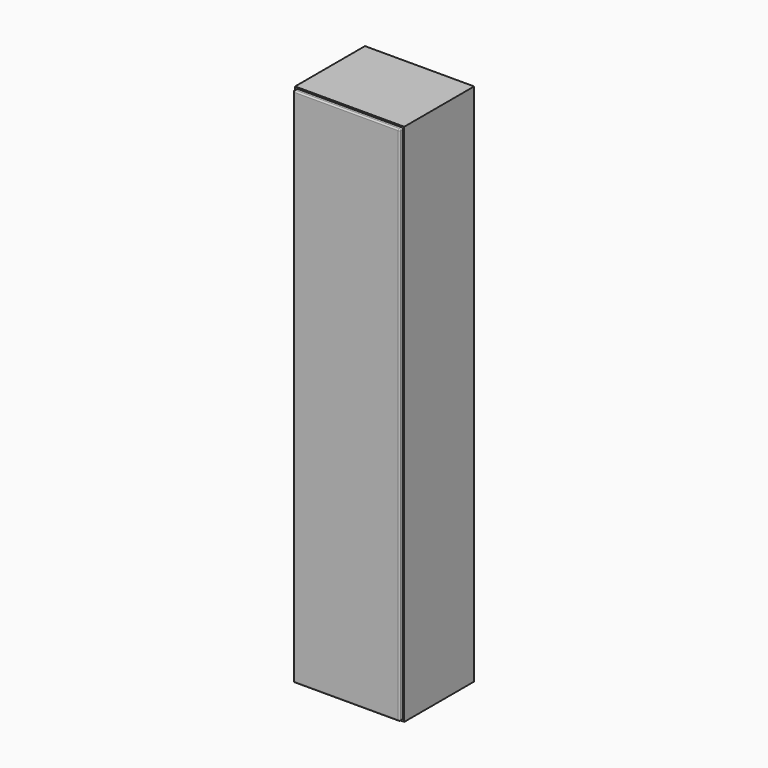
from build123d import *

# Parameters (mm, degrees)
F0_W     = 400
F0_H     = 1920
F1_DEPTH = 320
F2_W     = 390
F2_H     = 1910
F3_DEPTH = 15
F4_R     = 5


with BuildPart() as f1:
    # F0 (on Front) → F1 (new body)
    with BuildSketch(Plane.XZ):
        with Locations((200, 960)):
            Rectangle(F0_W, F0_H)
    extrude(amount=F1_DEPTH)

    # F2 (on face) → F3 (join)
    with BuildSketch(Plane.XZ.offset(320)):
        with Locations((200, 960)):
            Rectangle(F2_W, F2_H)
    extrude(amount=F3_DEPTH)

    # F4
    f4_edges = [f1.edges().sort_by_distance(p)[0] for p in [
        (395, -335, 960),
        (200, -335, 1915),
        (5, -335, 960),
        (200, -335, 5),
        (395, -327.5, 1915),
        (5, -327.5, 1915),
        (395, -327.5, 5),
        (5, -327.5, 5),
    ]]
    fillet(f4_edges, radius=F4_R)


solid = f1.part
